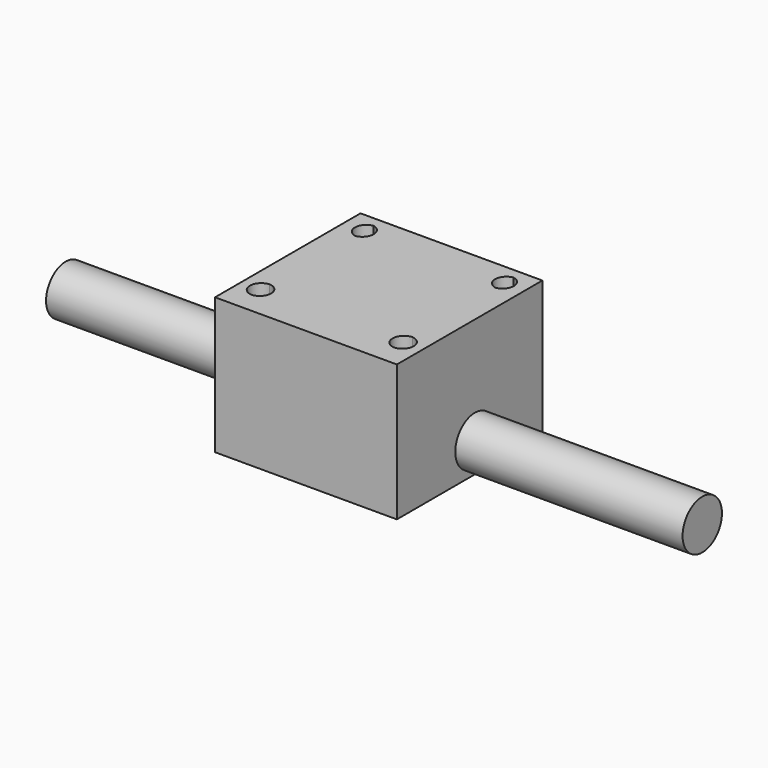
from build123d import *

# Parameters (mm, degrees)
F0_W     = 50.8
F0_H     = 50.8
F0_R     = 3.175
F1_DEPTH = 19.05
F2_R     = 6.872495
F3_DEPTH = 63.5


with BuildPart() as f1:
    # F0 (on Top) → F1 (new body, symmetric)
    with BuildSketch(Plane.XY):
        Rectangle(F0_W, F0_H)
        with Locations((-20.133952, -16.346581)):
            Circle(F0_R, mode=Mode.SUBTRACT)
        with Locations((19.715946, -16.346581)):
            Circle(F0_R, mode=Mode.SUBTRACT)
        with Locations((-20.133952, 19.457644)):
            Circle(F0_R, mode=Mode.SUBTRACT)
        with Locations((19.008903, 19.457644)):
            Circle(F0_R, mode=Mode.SUBTRACT)
    extrude(amount=F1_DEPTH, both=True)

    # F2 (on face) → F3 (join)
    with BuildSketch(Plane(origin=(-25.4, 0, 0), x_dir=(0, -1, 0), z_dir=(-1, 0, 0))):
        with Locations((-1.860697, -10.750698)):
            Circle(F2_R)
    extrude(amount=F3_DEPTH)

    # F4: F1 across plane


with BuildPart() as f1_1:
    add(f1.part)
    add(f1.part.mirror(Plane.YZ))


solid = f1_1.part
